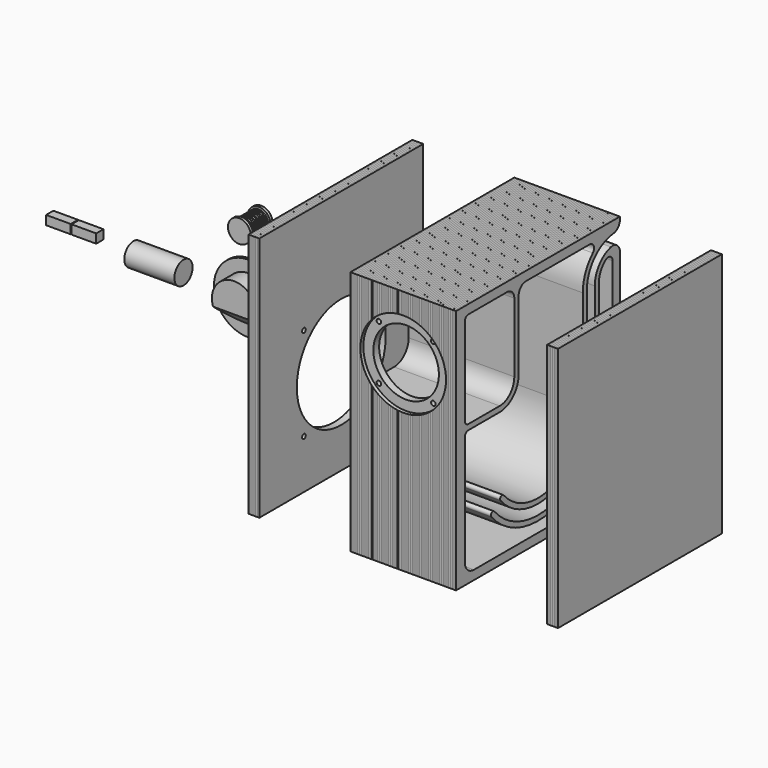
from build123d import *

# Parameters (mm, degrees)
F2_DEPTH  = 116
F3_W      = 12
F3_H      = 225
F4_DEPTH  = 135
F5_R      = 77.5
F6_DEPTH  = 4
F7_R      = 61
F8_DEPTH  = 8
F9_W      = 12
F9_H      = 225
F10_DEPTH = 135
F11_R     = 47
F12_DEPTH = 4
F13_R     = 36
F14_DEPTH = 8
F15_W     = 2
F15_H     = 300
F16_DEPTH = 0.01
F17_W     = 2
F17_H     = 250
F18_DEPTH = 0.01
F19_R     = 2.5
F20_DEPTH = 8
F21_R     = 2.5
F22_DEPTH = 8
F23_W     = 55
F23_H     = 12.5
F25_R     = 37.5
F26_DEPTH = 22
F27_R     = 37.5
F27_R_2   = 24.5
F28_DEPTH = 19
F29_W     = 55
F29_H     = 10
F30_DEPTH = 10
F31_R     = 37.5
F32_DEPTH = 3
F33_R     = 25
F34_DEPTH = 7
F35_R     = 5
F36_DEPTH = 20
F37_W     = 1
F37_H     = 15
F38_DEPTH = 25
F41_DEPTH = 25


with BuildPart() as f2:
    # F1 (on Right) → F2 (new body)
    with BuildSketch(Plane.YZ):
        with BuildLine():
            Line((90, -125), (-88, -125))
            ThreePointArc((-88, -125), (-96.8388347648, -121.3388347648), (-100.5, -112.5))
            Line((-100.5, -112.5), (-100.5, 8))
            ThreePointArc((-100.5, 8), (-99.0355339059, 11.5355339059), (-95.5, 13))
            Line((-95.5, 13), (-52.5, 13))
            ThreePointArc((-52.5, 13), (-34.1152236891, 20.6152236891), (-26.5, 39))
            Line((-26.5, 39), (-26.5, 115))
            ThreePointArc((-26.5, 115), (-23.5710678118, 122.0710678118), (-16.5, 125))
            Line((-16.5, 125), (70.9696997334, 125))
            ThreePointArc((70.9696997334, 125), (76.4747651516, 121.386263762), (75.3485457717, 114.8980849139))
            ThreePointArc((75.3485457717, 114.8980849139), (65.1032613607, 99.8470320431), (61.5, 82))
            Line((61.5, 82), (61.5, -30))
            ThreePointArc((61.5, -30), (21.0342388145, -87.7910961783), (-47.1117332518, -69.5314379957))
            ThreePointArc((-47.1117332518, -69.5314379957), (-50.986021397, -69.1924817038), (-51.324977689, -73.066769849))
            ThreePointArc((-51.324977689, -73.066769849), (22.9153496028, -92.9594055927), (67, -30))
            Line((67, -30), (67, 82))
            ThreePointArc((67, 82), (77.1458404827, 108.8118443976), (102.5, 122.1901729282))
            ThreePointArc((102.5, 122.1901729282), (109.5710678119, 125.1191051164), (112.5, 132.1901729282))
            Line((112.5, 132.1901729282), (112.5, 135))
            Line((112.5, 135), (-112.5, 135))
            Line((-112.5, 135), (-112.5, -135))
            Line((-112.5, -135), (112.5, -135))
            Line((112.5, -135), (112.5, 100.8507812032))
            ThreePointArc((112.5, 100.8507812032), (108.7084801002, 108.690090793), (100.209045031, 110.5848207208))
            ThreePointArc((100.209045031, 110.5848207208), (84.2047947896, 100.0992655709), (78, 82))
            Line((78, 82), (78, -30))
            ThreePointArc((78, -30), (26.6775711794, -103.2960244213), (-59.7514665633, -80.1374335556))
            ThreePointArc((-59.7514665633, -80.1374335556), (-63.6257547085, -79.7984772636), (-63.9647110004, -83.6727654088))
            ThreePointArc((-63.9647110004, -83.6727654088), (28.5586819677, -108.4643338356), (83.5, -30))
            Line((83.5, -30), (83.5, 82))
            ThreePointArc((83.5, 82), (86.0492911258, 92.7641575979), (93.1555907327, 101.2415675758))
            ThreePointArc((93.1555907327, 101.2415675758), (99.3225471118, 101.5547507133), (102.5, 96.26010929))
            Line((102.5, 96.26010929), (102.5, -112.5))
            ThreePointArc((102.5, -112.5), (98.8388347648, -121.3388347648), (90, -125))
        make_face()
        with BuildLine():
            Line((-52.5, 19), (-95.5, 19))
            ThreePointArc((-95.5, 19), (-99.0355339059, 20.4644660941), (-100.5, 24))
            Line((-100.5, 24), (-100.5, 120))
            ThreePointArc((-100.5, 120), (-99.0355339059, 123.5355339059), (-95.5, 125))
            Line((-95.5, 125), (-42.5, 125))
            ThreePointArc((-42.5, 125), (-35.4289321881, 122.0710678119), (-32.5, 115))
            Line((-32.5, 115), (-32.5, 39))
            ThreePointArc((-32.5, 39), (-38.3578643762, 24.8578643762), (-52.5, 19))
        make_face(mode=Mode.SUBTRACT)
    extrude(amount=F2_DEPTH)

    # F11 (on face) → F12 (cut)
    with BuildSketch(Plane.XZ.offset(112.5)):
        with Locations((58, 65)):
            Circle(F11_R)
    extrude(amount=-F12_DEPTH, mode=Mode.SUBTRACT)

    # F13 (on face) → F14 (cut)
    with BuildSketch(Plane.XZ.offset(108.5)):
        with Locations((58, 65)):
            Circle(F13_R)
    extrude(amount=-F14_DEPTH, mode=Mode.SUBTRACT)


with BuildPart() as f4:
    # F3 (on Top) → F4 (new body, symmetric)
    with BuildSketch(Plane.XY):
        with Locations((-106, 0)):
            Rectangle(F3_W, F3_H)
    extrude(amount=F4_DEPTH, both=True)

    # F5 (on face) → F6 (cut)
    with BuildSketch(Plane(origin=(-112, 0, 0), x_dir=(0, -1, 0), z_dir=(-1, 0, 0))):
        with Locations((0, -30)):
            Circle(F5_R)
    extrude(amount=-F6_DEPTH, mode=Mode.SUBTRACT)

    # F7 (on face) → F8 (cut)
    with BuildSketch(Plane(origin=(-108, 0, 0), x_dir=(0, -1, 0), z_dir=(-1, 0, 0))):
        with Locations((0, -30)):
            Circle(F7_R)
    extrude(amount=-F8_DEPTH, mode=Mode.SUBTRACT)


with BuildPart() as f10:
    # F9 (on Top) → F10 (new body, symmetric)
    with BuildSketch(Plane.XY):
        with Locations((222, 0)):
            Rectangle(F9_W, F9_H)
    extrude(amount=F10_DEPTH, both=True)


with BuildPart() as f16_tool:
    # F15 (on face) → F16 (new body)
    with BuildSketch(Plane.XZ.offset(112.5)):
        with Locations((225, 0)):
            Rectangle(F15_W, F15_H)
        with Locations((221, 0)):
            Rectangle(F15_W, F15_H)
        with Locations((217, 0)):
            Rectangle(F15_W, F15_H)
        with Locations((213, 0)):
            Rectangle(F15_W, F15_H)
        with Locations((209, 0)):
            Rectangle(F15_W, F15_H)
        with Locations((205, 0)):
            Rectangle(F15_W, F15_H)
        with Locations((201, 0)):
            Rectangle(F15_W, F15_H)
        with Locations((197, 0)):
            Rectangle(F15_W, F15_H)
        with Locations((193, 0)):
            Rectangle(F15_W, F15_H)
        with Locations((189, 0)):
            Rectangle(F15_W, F15_H)
        with Locations((185, 0)):
            Rectangle(F15_W, F15_H)
        with Locations((181, 0)):
            Rectangle(F15_W, F15_H)
        with Locations((177, 0)):
            Rectangle(F15_W, F15_H)
        with Locations((173, 0)):
            Rectangle(F15_W, F15_H)
        with Locations((169, 0)):
            Rectangle(F15_W, F15_H)
        with Locations((165, 0)):
            Rectangle(F15_W, F15_H)
        with Locations((161, 0)):
            Rectangle(F15_W, F15_H)
        with Locations((157, 0)):
            Rectangle(F15_W, F15_H)
        with Locations((153, 0)):
            Rectangle(F15_W, F15_H)
        with Locations((149, 0)):
            Rectangle(F15_W, F15_H)
        with Locations((145, 0)):
            Rectangle(F15_W, F15_H)
        with Locations((141, 0)):
            Rectangle(F15_W, F15_H)
        with Locations((137, 0)):
            Rectangle(F15_W, F15_H)
        with Locations((133, 0)):
            Rectangle(F15_W, F15_H)
        with Locations((129, 0)):
            Rectangle(F15_W, F15_H)
        with Locations((125, 0)):
            Rectangle(F15_W, F15_H)
        with Locations((121, 0)):
            Rectangle(F15_W, F15_H)
        with Locations((117, 0)):
            Rectangle(F15_W, F15_H)
        with Locations((113, 0)):
            Rectangle(F15_W, F15_H)
        with Locations((109, 0)):
            Rectangle(F15_W, F15_H)
        with Locations((105, 0)):
            Rectangle(F15_W, F15_H)
        with Locations((101, 0)):
            Rectangle(F15_W, F15_H)
        with Locations((97, 0)):
            Rectangle(F15_W, F15_H)
        with Locations((93, 0)):
            Rectangle(F15_W, F15_H)
        with Locations((89, 0)):
            Rectangle(F15_W, F15_H)
        with Locations((85, 0)):
            Rectangle(F15_W, F15_H)
        with Locations((81, 0)):
            Rectangle(F15_W, F15_H)
        with Locations((77, 0)):
            Rectangle(F15_W, F15_H)
        with Locations((73, 0)):
            Rectangle(F15_W, F15_H)
        with Locations((69, 0)):
            Rectangle(F15_W, F15_H)
        with Locations((65, 0)):
            Rectangle(F15_W, F15_H)
        with Locations((61, 0)):
            Rectangle(F15_W, F15_H)
        with Locations((57, 0)):
            Rectangle(F15_W, F15_H)
        with Locations((53, 0)):
            Rectangle(F15_W, F15_H)
        with Locations((49, 0)):
            Rectangle(F15_W, F15_H)
        with Locations((45, 0)):
            Rectangle(F15_W, F15_H)
        with Locations((41, 0)):
            Rectangle(F15_W, F15_H)
        with Locations((37, 0)):
            Rectangle(F15_W, F15_H)
        with Locations((33, 0)):
            Rectangle(F15_W, F15_H)
        with Locations((29, 0)):
            Rectangle(F15_W, F15_H)
        with Locations((25, 0)):
            Rectangle(F15_W, F15_H)
        with Locations((21, 0)):
            Rectangle(F15_W, F15_H)
        with Locations((17, 0)):
            Rectangle(F15_W, F15_H)
        with Locations((13, 0)):
            Rectangle(F15_W, F15_H)
        with Locations((9, 0)):
            Rectangle(F15_W, F15_H)
        with Locations((5, 0)):
            Rectangle(F15_W, F15_H)
        with Locations((1, 0)):
            Rectangle(F15_W, F15_H)
        with Locations((-3, 0)):
            Rectangle(F15_W, F15_H)
        with Locations((-7, 0)):
            Rectangle(F15_W, F15_H)
        with Locations((-11, 0)):
            Rectangle(F15_W, F15_H)
        with Locations((-15, 0)):
            Rectangle(F15_W, F15_H)
        with Locations((-19, 0)):
            Rectangle(F15_W, F15_H)
        with Locations((-23, 0)):
            Rectangle(F15_W, F15_H)
        with Locations((-27, 0)):
            Rectangle(F15_W, F15_H)
        with Locations((-31, 0)):
            Rectangle(F15_W, F15_H)
        with Locations((-35, 0)):
            Rectangle(F15_W, F15_H)
        with Locations((-39, 0)):
            Rectangle(F15_W, F15_H)
        with Locations((-43, 0)):
            Rectangle(F15_W, F15_H)
        with Locations((-47, 0)):
            Rectangle(F15_W, F15_H)
        with Locations((-51, 0)):
            Rectangle(F15_W, F15_H)
        with Locations((-55, 0)):
            Rectangle(F15_W, F15_H)
        with Locations((-59, 0)):
            Rectangle(F15_W, F15_H)
        with Locations((-63, 0)):
            Rectangle(F15_W, F15_H)
        with Locations((-67, 0)):
            Rectangle(F15_W, F15_H)
        with Locations((-71, 0)):
            Rectangle(F15_W, F15_H)
        with Locations((-75, 0)):
            Rectangle(F15_W, F15_H)
        with Locations((-79, 0)):
            Rectangle(F15_W, F15_H)
        with Locations((-83, 0)):
            Rectangle(F15_W, F15_H)
        with Locations((-87, 0)):
            Rectangle(F15_W, F15_H)
        with Locations((-91, 0)):
            Rectangle(F15_W, F15_H)
        with Locations((-95, 0)):
            Rectangle(F15_W, F15_H)
        with Locations((-99, 0)):
            Rectangle(F15_W, F15_H)
        with Locations((-103, 0)):
            Rectangle(F15_W, F15_H)
        with Locations((-107, 0)):
            Rectangle(F15_W, F15_H)
        with Locations((-111, 0)):
            Rectangle(F15_W, F15_H)
    extrude(amount=-F16_DEPTH)


with BuildPart() as f2_1:
    add(f2.part)

    # F16: cut by f16_tool
    add(f16_tool.part, mode=Mode.SUBTRACT)


with BuildPart() as f4_1:
    add(f4.part)

    # F16: cut by f16_tool
    add(f16_tool.part, mode=Mode.SUBTRACT)


with BuildPart() as f10_1:
    add(f10.part)

    # F16: cut by f16_tool
    add(f16_tool.part, mode=Mode.SUBTRACT)


with BuildPart() as f18_tool:
    # F17 (on face) → F18 (new body)
    with BuildSketch(Plane.XY.offset(135)):
        with Locations((225, 0)):
            Rectangle(F17_W, F17_H)
        with Locations((221, 0)):
            Rectangle(F17_W, F17_H)
        with Locations((217, 0)):
            Rectangle(F17_W, F17_H)
        with Locations((213, 0)):
            Rectangle(F17_W, F17_H)
        with Locations((209, 0)):
            Rectangle(F17_W, F17_H)
        with Locations((205, 0)):
            Rectangle(F17_W, F17_H)
        with Locations((201, 0)):
            Rectangle(F17_W, F17_H)
        with Locations((197, 0)):
            Rectangle(F17_W, F17_H)
        with Locations((193, 0)):
            Rectangle(F17_W, F17_H)
        with Locations((189, 0)):
            Rectangle(F17_W, F17_H)
        with Locations((185, 0)):
            Rectangle(F17_W, F17_H)
        with Locations((181, 0)):
            Rectangle(F17_W, F17_H)
        with Locations((177, 0)):
            Rectangle(F17_W, F17_H)
        with Locations((173, 0)):
            Rectangle(F17_W, F17_H)
        with Locations((169, 0)):
            Rectangle(F17_W, F17_H)
        with Locations((165, 0)):
            Rectangle(F17_W, F17_H)
        with Locations((161, 0)):
            Rectangle(F17_W, F17_H)
        with Locations((157, 0)):
            Rectangle(F17_W, F17_H)
        with Locations((153, 0)):
            Rectangle(F17_W, F17_H)
        with Locations((149, 0)):
            Rectangle(F17_W, F17_H)
        with Locations((145, 0)):
            Rectangle(F17_W, F17_H)
        with Locations((141, 0)):
            Rectangle(F17_W, F17_H)
        with Locations((137, 0)):
            Rectangle(F17_W, F17_H)
        with Locations((133, 0)):
            Rectangle(F17_W, F17_H)
        with Locations((129, 0)):
            Rectangle(F17_W, F17_H)
        with Locations((125, 0)):
            Rectangle(F17_W, F17_H)
        with Locations((121, 0)):
            Rectangle(F17_W, F17_H)
        with Locations((117, 0)):
            Rectangle(F17_W, F17_H)
        with Locations((113, 0)):
            Rectangle(F17_W, F17_H)
        with Locations((109, 0)):
            Rectangle(F17_W, F17_H)
        with Locations((105, 0)):
            Rectangle(F17_W, F17_H)
        with Locations((101, 0)):
            Rectangle(F17_W, F17_H)
        with Locations((97, 0)):
            Rectangle(F17_W, F17_H)
        with Locations((93, 0)):
            Rectangle(F17_W, F17_H)
        with Locations((89, 0)):
            Rectangle(F17_W, F17_H)
        with Locations((85, 0)):
            Rectangle(F17_W, F17_H)
        with Locations((81, 0)):
            Rectangle(F17_W, F17_H)
        with Locations((77, 0)):
            Rectangle(F17_W, F17_H)
        with Locations((73, 0)):
            Rectangle(F17_W, F17_H)
        with Locations((69, 0)):
            Rectangle(F17_W, F17_H)
        with Locations((65, 0)):
            Rectangle(F17_W, F17_H)
        with Locations((61, 0)):
            Rectangle(F17_W, F17_H)
        with Locations((57, 0)):
            Rectangle(F17_W, F17_H)
        with Locations((53, 0)):
            Rectangle(F17_W, F17_H)
        with Locations((49, 0)):
            Rectangle(F17_W, F17_H)
        with Locations((45, 0)):
            Rectangle(F17_W, F17_H)
        with Locations((41, 0)):
            Rectangle(F17_W, F17_H)
        with Locations((37, 0)):
            Rectangle(F17_W, F17_H)
        with Locations((33, 0)):
            Rectangle(F17_W, F17_H)
        with Locations((29, 0)):
            Rectangle(F17_W, F17_H)
        with Locations((25, 0)):
            Rectangle(F17_W, F17_H)
        with Locations((21, 0)):
            Rectangle(F17_W, F17_H)
        with Locations((17, 0)):
            Rectangle(F17_W, F17_H)
        with Locations((13, 0)):
            Rectangle(F17_W, F17_H)
        with Locations((9, 0)):
            Rectangle(F17_W, F17_H)
        with Locations((5, 0)):
            Rectangle(F17_W, F17_H)
        with Locations((1, 0)):
            Rectangle(F17_W, F17_H)
        with Locations((-3, 0)):
            Rectangle(F17_W, F17_H)
        with Locations((-7, 0)):
            Rectangle(F17_W, F17_H)
        with Locations((-11, 0)):
            Rectangle(F17_W, F17_H)
        with Locations((-15, 0)):
            Rectangle(F17_W, F17_H)
        with Locations((-19, 0)):
            Rectangle(F17_W, F17_H)
        with Locations((-23, 0)):
            Rectangle(F17_W, F17_H)
        with Locations((-27, 0)):
            Rectangle(F17_W, F17_H)
        with Locations((-31, 0)):
            Rectangle(F17_W, F17_H)
        with Locations((-35, 0)):
            Rectangle(F17_W, F17_H)
        with Locations((-39, 0)):
            Rectangle(F17_W, F17_H)
        with Locations((-43, 0)):
            Rectangle(F17_W, F17_H)
        with Locations((-47, 0)):
            Rectangle(F17_W, F17_H)
        with Locations((-51, 0)):
            Rectangle(F17_W, F17_H)
        with Locations((-55, 0)):
            Rectangle(F17_W, F17_H)
        with Locations((-59, 0)):
            Rectangle(F17_W, F17_H)
        with Locations((-63, 0)):
            Rectangle(F17_W, F17_H)
        with Locations((-67, 0)):
            Rectangle(F17_W, F17_H)
        with Locations((-71, 0)):
            Rectangle(F17_W, F17_H)
        with Locations((-75, 0)):
            Rectangle(F17_W, F17_H)
        with Locations((-79, 0)):
            Rectangle(F17_W, F17_H)
        with Locations((-83, 0)):
            Rectangle(F17_W, F17_H)
        with Locations((-87, 0)):
            Rectangle(F17_W, F17_H)
        with Locations((-91, 0)):
            Rectangle(F17_W, F17_H)
        with Locations((-95, 0)):
            Rectangle(F17_W, F17_H)
        with Locations((-99, 0)):
            Rectangle(F17_W, F17_H)
        with Locations((-103, 0)):
            Rectangle(F17_W, F17_H)
        with Locations((-107, 0)):
            Rectangle(F17_W, F17_H)
        with Locations((-111, 0)):
            Rectangle(F17_W, F17_H)
    extrude(amount=-F18_DEPTH)


with BuildPart() as f2_2:
    add(f2_1.part)

    # F18: cut by f18_tool
    add(f18_tool.part, mode=Mode.SUBTRACT)

    # F19 (on face) → F20 (cut)
    with BuildSketch(Plane.XZ.offset(108.5)):
        with Locations((28.1247384949, 94.8752615051)):
            Circle(F19_R)
        with Locations((87.8752615051, 94.8752615051)):
            Circle(F19_R)
        with Locations((28.1247384949, 35.1247384949)):
            Circle(F19_R)
        with Locations((87.8752615051, 35.1247384949)):
            Circle(F19_R)
    extrude(amount=-F20_DEPTH, mode=Mode.SUBTRACT)

    # F31 (on face) → F32 (cut)
    with BuildSketch(Plane(origin=(0, 112.5, 0), x_dir=(-1, 0, 0), z_dir=(0, 1, 0))):
        with Locations((-58, -80)):
            Circle(F31_R)
    extrude(amount=-F32_DEPTH, mode=Mode.SUBTRACT)

    # F33 (on face) → F34 (cut)
    with BuildSketch(Plane(origin=(0, 109.5, 0), x_dir=(-1, 0, 0), z_dir=(0, 1, 0))):
        with Locations((-58, -80)):
            Circle(F33_R)
    extrude(amount=-F34_DEPTH, mode=Mode.SUBTRACT)


with BuildPart() as f4_2:
    add(f4_1.part)

    # F18: cut by f18_tool
    add(f18_tool.part, mode=Mode.SUBTRACT)

    # F21 (on face) → F22 (cut)
    with BuildSketch(Plane(origin=(-108, 0, 0), x_dir=(0, -1, 0), z_dir=(-1, 0, 0))):
        with Locations((-51.265241636, 21.265241636)):
            Circle(F21_R)
        with Locations((51.265241636, 21.265241636)):
            Circle(F21_R)
        with Locations((51.265241636, -81.265241636)):
            Circle(F21_R)
        with Locations((-51.265241636, -81.265241636)):
            Circle(F21_R)
    extrude(amount=-F22_DEPTH, mode=Mode.SUBTRACT)


with BuildPart() as f10_2:
    add(f10_1.part)

    # F18: cut by f18_tool
    add(f18_tool.part, mode=Mode.SUBTRACT)


with BuildPart() as f24:
    # F23 (on Top) → F24 (revolve)
    with BuildSketch(Plane.XY):
        with Locations((-300.7716572285, 6.25)):
            Rectangle(F23_W, F23_H)
    revolve(axis=Axis((-300.7716572285, 0, 0), (-1, 0, 0)))


with BuildPart() as f26:
    # F25 (on Front) → F26 (new body)
    with BuildSketch(Plane.XZ):
        with Locations((-200, 0)):
            Circle(F25_R)
    extrude(amount=F26_DEPTH)

    # F27 (on face) → F28 (cut)
    with BuildSketch(Plane.XZ.offset(22)):
        with Locations((-200, 0)):
            Circle(F27_R)
        with Locations((-200, 0)):
            Circle(F27_R_2, mode=Mode.SUBTRACT)
    extrude(amount=-F28_DEPTH, mode=Mode.SUBTRACT)

    # F35 (on face) → F36 (cut)
    with BuildSketch(Plane(origin=(0, 0, 0), x_dir=(-1, 0, 0), z_dir=(0, 1, 0))):
        with BuildLine():
            ThreePointArc((221.0297408448, -8), (200, 22.5), (178.9702591552, -8))
            Line((178.9702591552, -8), (221.0297408448, -8))
        make_face()
        with Locations((192, 2)):
            Circle(F35_R, mode=Mode.SUBTRACT)
        with Locations((208, 2)):
            Circle(F35_R, mode=Mode.SUBTRACT)
    extrude(amount=-F36_DEPTH, mode=Mode.SUBTRACT)

    # F40 (on offset) → F41 (cut, symmetric)
    with BuildSketch(Plane.YZ.offset(-200)):
        Polygon((-3, -26.5999827534), (-3, -24.5), (-22.1638418734, -7.554190699), (-25.4644565284, -7.554190699), (-25.4644565284, -26.5999827534), align=None)
    extrude(amount=F41_DEPTH, both=True, mode=Mode.SUBTRACT)


with BuildPart() as f30:
    # F29 (on Top) → F30 (new body)
    with BuildSketch(Plane.XY):
        with Locations((-392.6897346973, 0)):
            Rectangle(F29_W, F29_H)
    extrude(amount=F30_DEPTH)

    # F37 (on face) → F38 (cut)
    with BuildSketch(Plane.XZ.offset(5)):
        with Locations((-392.6897346973, 5)):
            Rectangle(F37_W, F37_H)
    extrude(amount=-F38_DEPTH, mode=Mode.SUBTRACT)


with BuildPart() as f44:
    # F43 (on offset) → F44 (revolve)
    with BuildSketch(Plane.YZ.offset(-200)):
        with BuildLine():
            Line((12, 57.5), (15, 57.5))
            Line((15, 57.5), (15, 70))
            Line((15, 70), (-15, 70))
            Line((-15, 70), (-15, 57.5))
            Line((-15, 57.5), (-12, 57.5))
            Line((-12, 57.5), (-12, 60.5))
            ThreePointArc((-12, 60.5), (-11, 59.5), (-10, 60.5))
            ThreePointArc((-10, 60.5), (-9, 59.5), (-8, 60.5))
            ThreePointArc((-8, 60.5), (-7, 59.5), (-6, 60.5))
            ThreePointArc((-6, 60.5), (-5, 59.5), (-4, 60.5))
            ThreePointArc((-4, 60.5), (-3, 59.5), (-2, 60.5))
            ThreePointArc((-2, 60.5), (-1, 59.5), (0, 60.5))
            ThreePointArc((0, 60.5), (1, 59.5), (2, 60.5))
            ThreePointArc((2, 60.5), (3, 59.5), (4, 60.5))
            ThreePointArc((4, 60.5), (5, 59.5), (6, 60.5))
            ThreePointArc((6, 60.5), (7, 59.5), (8, 60.5))
            ThreePointArc((8, 60.5), (9, 59.5), (10, 60.5))
            ThreePointArc((10, 60.5), (11, 59.5), (12, 60.5))
            Line((12, 60.5), (12, 57.5))
        make_face()
    revolve(axis=Axis((-200, 0, 70), (0, -1, 0)))


solid = Compound([f2_2.part, f4_2.part, f10_2.part, f24.part, f26.part, f30.part, f44.part])
